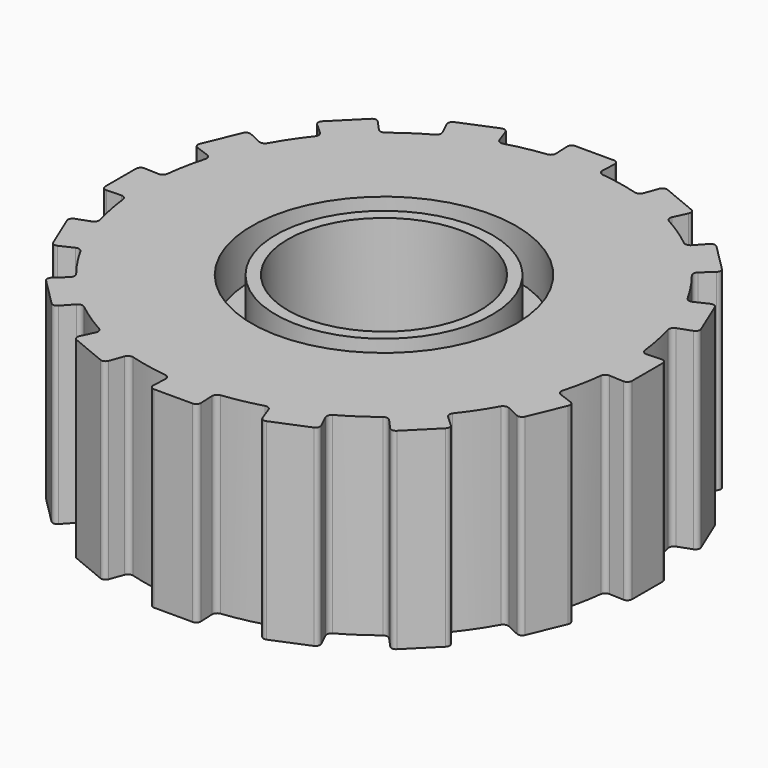
from build123d import *

# Parameters (mm, degrees)
F0_W     = 1.75
F0_H     = 2
F3_DEPTH = 25
F5_R     = 1.375
F5_R_2   = 1.125
F6_DEPTH = 0.5
F4_R     = 1.375
F4_R_2   = 1.125
F7_DEPTH = 0.5


with BuildPart() as f1:
    # F0 (on Front) → F1 (revolve)
    with BuildSketch(Plane.XZ):
        with Locations((-1.875, 1)):
            Rectangle(F0_W, F0_H)
    revolve(axis=Axis((0, 0, 1), (0, 0, 1)))

    # F2 (on face) → F3 (cut)
    with BuildSketch(Plane.XY.offset(2)):
        with BuildLine():
            ThreePointArc((-0.687594, 2.403584), (-0.487726, 2.451963), (-0.284558, 2.483753))
            Line((-0.284558, 2.483753), (-0.297718, 2.688613))
            Line((-0.297718, 2.688613), (-0.247718, 2.688613))
            Line((-0.247718, 2.688613), (-0.25, 2.738613))
            ThreePointArc((-0.25, 2.738613), (-0.536498, 2.69716), (-0.817052, 2.625819))
            Line((-0.817052, 2.625819), (-0.800026, 2.578752))
            Line((-0.800026, 2.578752), (-0.748944, 2.437536))
            ThreePointArc((-0.748944, 2.437536), (-0.724642, 2.409045), (-0.687594, 2.403584))
        make_face()
        with BuildLine():
            ThreePointArc((-0.284558, 2.483753), (-0.25242, 2.502975), (-0.240871, 2.538598))
            Line((-0.240871, 2.538598), (-0.247718, 2.688613))
            Line((-0.247718, 2.688613), (-0.297718, 2.688613))
            Line((-0.297718, 2.688613), (-0.284558, 2.483753))
        make_face()
        with BuildLine():
            ThreePointArc((-0.247718, 2.688613), (-0.234558, 2.723823), (-0.2, 2.738613))
            Line((-0.2, 2.738613), (-0.25, 2.738613))
            Line((-0.25, 2.738613), (-0.247718, 2.688613))
        make_face()
        with BuildLine():
            Line((-0.2, 2.738613), (0, 2.738613))
            Line((0, 2.738613), (0, 2.75))
            ThreePointArc((0, 2.75), (-0.12513, 2.747152), (-0.25, 2.738613))
            Line((-0.25, 2.738613), (-0.2, 2.738613))
        make_face()
        with BuildLine():
            Line((0, 2.75), (0, 2.738613))
            Line((0, 2.738613), (0.2, 2.738613))
            Line((0.2, 2.738613), (0.25, 2.738613))
            ThreePointArc((0.25, 2.738613), (0.12513, 2.747152), (0, 2.75))
        make_face()
        with BuildLine():
            Line((0.25, 2.738613), (0.2, 2.738613))
            ThreePointArc((0.2, 2.738613), (0.234558, 2.723823), (0.247718, 2.688613))
            Line((0.247718, 2.688613), (0.25, 2.738613))
        make_face()
        with BuildLine():
            Line((0.297718, 2.688613), (0.284558, 2.483753))
            ThreePointArc((0.284558, 2.483753), (0.487726, 2.451963), (0.687594, 2.403584))
            ThreePointArc((0.687594, 2.403584), (0.724642, 2.409045), (0.748944, 2.437536))
            Line((0.748944, 2.437536), (0.800026, 2.578752))
            Line((0.800026, 2.578752), (0.817052, 2.625819))
            ThreePointArc((0.817052, 2.625819), (0.536498, 2.69716), (0.25, 2.738613))
            Line((0.25, 2.738613), (0.247718, 2.688613))
            Line((0.247718, 2.688613), (0.297718, 2.688613))
        make_face()
        with BuildLine():
            Line((0.247718, 2.688613), (0.240871, 2.538598))
            ThreePointArc((0.240871, 2.538598), (0.25242, 2.502975), (0.284558, 2.483753))
            Line((0.284558, 2.483753), (0.297718, 2.688613))
            Line((0.297718, 2.688613), (0.247718, 2.688613))
        make_face()
        with BuildLine():
            Line((-0.817052, -2.625819), (-0.800026, -2.578752))
            ThreePointArc((-0.800026, -2.578752), (-0.825659, -2.606246), (-0.863246, -2.606685))
            Line((-0.863246, -2.606685), (-0.817052, -2.625819))
        make_face()
        with BuildLine():
            Line((-0.863246, -2.606685), (-1.232798, -2.453612))
            Line((-1.232798, -2.453612), (-1.278992, -2.434477))
            ThreePointArc((-1.278992, -2.434477), (-1.052379, -2.540669), (-0.817052, -2.625819))
            Line((-0.817052, -2.625819), (-0.863246, -2.606685))
        make_face()
        with BuildLine():
            ThreePointArc((-1.232798, -2.453612), (-1.259065, -2.426723), (-1.257749, -2.389157))
            Line((-1.257749, -2.389157), (-1.278992, -2.434477))
            Line((-1.278992, -2.434477), (-1.232798, -2.453612))
        make_face()
        with BuildLine():
            ThreePointArc((-1.213388, -2.185793), (-1.388926, -2.078674), (-1.555066, -1.957491))
            ThreePointArc((-1.555066, -1.957491), (-1.591383, -1.948359), (-1.624739, -1.965381))
            Line((-1.624739, -1.965381), (-1.725973, -2.076299))
            Line((-1.725973, -2.076299), (-1.759715, -2.113268))
            ThreePointArc((-1.759715, -2.113268), (-1.527818, -2.286541), (-1.278992, -2.434477))
            Line((-1.278992, -2.434477), (-1.257749, -2.389157))
            Line((-1.257749, -2.389157), (-1.194015, -2.253182))
            ThreePointArc((-1.194015, -2.253182), (-1.191053, -2.215851), (-1.213388, -2.185793))
        make_face()
        with BuildLine():
            Line((-1.759715, -2.113268), (-1.725973, -2.076299))
            ThreePointArc((-1.725973, -2.076299), (-1.760177, -2.091891), (-1.79507, -2.077913))
            Line((-1.79507, -2.077913), (-1.759715, -2.113268))
        make_face()
        with BuildLine():
            Line((-1.79507, -2.077913), (-2.077913, -1.79507))
            Line((-2.077913, -1.79507), (-2.113268, -1.759715))
            ThreePointArc((-2.113268, -1.759715), (-1.944544, -1.944544), (-1.759715, -2.113268))
            Line((-1.759715, -2.113268), (-1.79507, -2.077913))
        make_face()
        with BuildLine():
            ThreePointArc((-1.957491, -1.555066), (-2.078674, -1.388926), (-2.185793, -1.213388))
            ThreePointArc((-2.185793, -1.213388), (-2.215851, -1.191053), (-2.253182, -1.194015))
            Line((-2.253182, -1.194015), (-2.389157, -1.257749))
            Line((-2.389157, -1.257749), (-2.434477, -1.278992))
            ThreePointArc((-2.434477, -1.278992), (-2.286541, -1.527818), (-2.113268, -1.759715))
            Line((-2.113268, -1.759715), (-2.076299, -1.725973))
            Line((-2.076299, -1.725973), (-1.965381, -1.624739))
            ThreePointArc((-1.965381, -1.624739), (-1.948359, -1.591383), (-1.957491, -1.555066))
        make_face()
        with BuildLine():
            ThreePointArc((-2.077913, -1.79507), (-2.091891, -1.760177), (-2.076299, -1.725973))
            Line((-2.076299, -1.725973), (-2.113268, -1.759715))
            Line((-2.113268, -1.759715), (-2.077913, -1.79507))
        make_face()
        with BuildLine():
            Line((-2.453612, -1.232798), (-2.606685, -0.863246))
            Line((-2.606685, -0.863246), (-2.625819, -0.817052))
            ThreePointArc((-2.625819, -0.817052), (-2.540669, -1.052379), (-2.434477, -1.278992))
            Line((-2.434477, -1.278992), (-2.453612, -1.232798))
        make_face()
        with BuildLine():
            Line((-2.434477, -1.278992), (-2.389157, -1.257749))
            ThreePointArc((-2.389157, -1.257749), (-2.426723, -1.259065), (-2.453612, -1.232798))
            Line((-2.453612, -1.232798), (-2.434477, -1.278992))
        make_face()
        with BuildLine():
            ThreePointArc((-2.606685, -0.863246), (-2.606246, -0.825659), (-2.578752, -0.800026))
            Line((-2.578752, -0.800026), (-2.625819, -0.817052))
            Line((-2.625819, -0.817052), (-2.606685, -0.863246))
        make_face()
        with BuildLine():
            ThreePointArc((-2.403584, -0.687594), (-2.451963, -0.487726), (-2.483753, -0.284558))
            ThreePointArc((-2.483753, -0.284558), (-2.502975, -0.25242), (-2.538598, -0.240871))
            Line((-2.538598, -0.240871), (-2.688613, -0.247718))
            Line((-2.688613, -0.247718), (-2.738613, -0.25))
            ThreePointArc((-2.738613, -0.25), (-2.69716, -0.536498), (-2.625819, -0.817052))
            Line((-2.625819, -0.817052), (-2.578752, -0.800026))
            Line((-2.578752, -0.800026), (-2.437536, -0.748944))
            ThreePointArc((-2.437536, -0.748944), (-2.409045, -0.724642), (-2.403584, -0.687594))
        make_face()
        with BuildLine():
            Line((-2.738613, -0.25), (-2.688613, -0.247718))
            ThreePointArc((-2.688613, -0.247718), (-2.723823, -0.234558), (-2.738613, -0.2))
            Line((-2.738613, -0.2), (-2.738613, -0.25))
        make_face()
        with BuildLine():
            Line((-2.738613, -0.2), (-2.738613, 0.2))
            Line((-2.738613, 0.2), (-2.738613, 0.25))
            ThreePointArc((-2.738613, 0.25), (-2.75, 0), (-2.738613, -0.25))
            Line((-2.738613, -0.25), (-2.738613, -0.2))
        make_face()
        with BuildLine():
            ThreePointArc((-2.738613, 0.2), (-2.723823, 0.234558), (-2.688613, 0.247718))
            Line((-2.688613, 0.247718), (-2.738613, 0.25))
            Line((-2.738613, 0.25), (-2.738613, 0.2))
        make_face()
        with BuildLine():
            ThreePointArc((-2.483753, 0.284558), (-2.451963, 0.487726), (-2.403584, 0.687594))
            ThreePointArc((-2.403584, 0.687594), (-2.409045, 0.724642), (-2.437536, 0.748944))
            Line((-2.437536, 0.748944), (-2.578752, 0.800026))
            Line((-2.578752, 0.800026), (-2.625819, 0.817052))
            ThreePointArc((-2.625819, 0.817052), (-2.69716, 0.536498), (-2.738613, 0.25))
            Line((-2.738613, 0.25), (-2.688613, 0.247718))
            Line((-2.688613, 0.247718), (-2.538598, 0.240871))
            ThreePointArc((-2.538598, 0.240871), (-2.502975, 0.25242), (-2.483753, 0.284558))
        make_face()
        with BuildLine():
            Line((-2.625819, 0.817052), (-2.578752, 0.800026))
            ThreePointArc((-2.578752, 0.800026), (-2.606246, 0.825659), (-2.606685, 0.863246))
            Line((-2.606685, 0.863246), (-2.625819, 0.817052))
        make_face()
        with BuildLine():
            Line((-2.606685, 0.863246), (-2.453612, 1.232798))
            Line((-2.453612, 1.232798), (-2.434477, 1.278992))
            ThreePointArc((-2.434477, 1.278992), (-2.540669, 1.052379), (-2.625819, 0.817052))
            Line((-2.625819, 0.817052), (-2.606685, 0.863246))
        make_face()
        with BuildLine():
            ThreePointArc((-2.453612, 1.232798), (-2.426723, 1.259065), (-2.389157, 1.257749))
            Line((-2.389157, 1.257749), (-2.434477, 1.278992))
            Line((-2.434477, 1.278992), (-2.453612, 1.232798))
        make_face()
        with BuildLine():
            Line((-2.077913, 1.79507), (-1.79507, 2.077913))
            Line((-1.79507, 2.077913), (-1.759715, 2.113268))
            ThreePointArc((-1.759715, 2.113268), (-1.944544, 1.944544), (-2.113268, 1.759715))
            Line((-2.113268, 1.759715), (-2.077913, 1.79507))
        make_face()
        with BuildLine():
            Line((-2.113268, 1.759715), (-2.076299, 1.725973))
            ThreePointArc((-2.076299, 1.725973), (-2.091891, 1.760177), (-2.077913, 1.79507))
            Line((-2.077913, 1.79507), (-2.113268, 1.759715))
        make_face()
        with BuildLine():
            ThreePointArc((-2.185793, 1.213388), (-2.078674, 1.388926), (-1.957491, 1.555066))
            ThreePointArc((-1.957491, 1.555066), (-1.948359, 1.591383), (-1.965381, 1.624739))
            Line((-1.965381, 1.624739), (-2.076299, 1.725973))
            Line((-2.076299, 1.725973), (-2.113268, 1.759715))
            ThreePointArc((-2.113268, 1.759715), (-2.286541, 1.527818), (-2.434477, 1.278992))
            Line((-2.434477, 1.278992), (-2.389157, 1.257749))
            Line((-2.389157, 1.257749), (-2.253182, 1.194015))
            ThreePointArc((-2.253182, 1.194015), (-2.215851, 1.191053), (-2.185793, 1.213388))
        make_face()
        with BuildLine():
            ThreePointArc((-1.79507, 2.077913), (-1.760177, 2.091891), (-1.725973, 2.076299))
            Line((-1.725973, 2.076299), (-1.759715, 2.113268))
            Line((-1.759715, 2.113268), (-1.79507, 2.077913))
        make_face()
        with BuildLine():
            ThreePointArc((-1.555066, 1.957491), (-1.388926, 2.078674), (-1.213388, 2.185793))
            ThreePointArc((-1.213388, 2.185793), (-1.191053, 2.215851), (-1.194015, 2.253182))
            Line((-1.194015, 2.253182), (-1.257749, 2.389157))
            Line((-1.257749, 2.389157), (-1.278992, 2.434477))
            ThreePointArc((-1.278992, 2.434477), (-1.527818, 2.286541), (-1.759715, 2.113268))
            Line((-1.759715, 2.113268), (-1.725973, 2.076299))
            Line((-1.725973, 2.076299), (-1.624739, 1.965381))
            ThreePointArc((-1.624739, 1.965381), (-1.591383, 1.948359), (-1.555066, 1.957491))
        make_face()
        with BuildLine():
            Line((-1.278992, 2.434477), (-1.257749, 2.389157))
            ThreePointArc((-1.257749, 2.389157), (-1.259065, 2.426723), (-1.232798, 2.453612))
            Line((-1.232798, 2.453612), (-1.278992, 2.434477))
        make_face()
        with BuildLine():
            ThreePointArc((-0.863246, 2.606685), (-0.825659, 2.606246), (-0.800026, 2.578752))
            Line((-0.800026, 2.578752), (-0.817052, 2.625819))
            Line((-0.817052, 2.625819), (-0.863246, 2.606685))
        make_face()
        with BuildLine():
            Line((-0.863246, 2.606685), (-0.817052, 2.625819))
            ThreePointArc((-0.817052, 2.625819), (-1.052379, 2.540669), (-1.278992, 2.434477))
            Line((-1.278992, 2.434477), (-1.232798, 2.453612))
            Line((-1.232798, 2.453612), (-0.863246, 2.606685))
        make_face()
        with BuildLine():
            Line((2.434477, 1.278992), (2.389157, 1.257749))
            ThreePointArc((2.389157, 1.257749), (2.426723, 1.259065), (2.453612, 1.232798))
            Line((2.453612, 1.232798), (2.434477, 1.278992))
        make_face()
        with BuildLine():
            ThreePointArc((2.625819, 0.817052), (2.540669, 1.052379), (2.434477, 1.278992))
            Line((2.434477, 1.278992), (2.453612, 1.232798))
            Line((2.453612, 1.232798), (2.606685, 0.863246))
            Line((2.606685, 0.863246), (2.625819, 0.817052))
        make_face()
        with BuildLine():
            ThreePointArc((2.606685, 0.863246), (2.606246, 0.825659), (2.578752, 0.800026))
            Line((2.578752, 0.800026), (2.625819, 0.817052))
            Line((2.625819, 0.817052), (2.606685, 0.863246))
        make_face()
        with BuildLine():
            ThreePointArc((2.403584, 0.687594), (2.451963, 0.487726), (2.483753, 0.284558))
            ThreePointArc((2.483753, 0.284558), (2.502975, 0.25242), (2.538598, 0.240871))
            Line((2.538598, 0.240871), (2.688613, 0.247718))
            Line((2.688613, 0.247718), (2.738613, 0.25))
            ThreePointArc((2.738613, 0.25), (2.69716, 0.536498), (2.625819, 0.817052))
            Line((2.625819, 0.817052), (2.578752, 0.800026))
            Line((2.578752, 0.800026), (2.437536, 0.748944))
            ThreePointArc((2.437536, 0.748944), (2.409045, 0.724642), (2.403584, 0.687594))
        make_face()
        with BuildLine():
            Line((2.738613, 0.25), (2.688613, 0.247718))
            ThreePointArc((2.688613, 0.247718), (2.723823, 0.234558), (2.738613, 0.2))
            Line((2.738613, 0.2), (2.738613, 0.25))
        make_face()
        with BuildLine():
            ThreePointArc((2.75, 0), (2.747152, 0.12513), (2.738613, 0.25))
            Line((2.738613, 0.25), (2.738613, 0.2))
            Line((2.738613, 0.2), (2.738613, -0.2))
            Line((2.738613, -0.2), (2.738613, -0.25))
            ThreePointArc((2.738613, -0.25), (2.747152, -0.12513), (2.75, 0))
        make_face()
        with BuildLine():
            ThreePointArc((2.738613, -0.2), (2.723823, -0.234558), (2.688613, -0.247718))
            Line((2.688613, -0.247718), (2.738613, -0.25))
            Line((2.738613, -0.25), (2.738613, -0.2))
        make_face()
        with BuildLine():
            ThreePointArc((2.483753, -0.284558), (2.451963, -0.487726), (2.403584, -0.687594))
            ThreePointArc((2.403584, -0.687594), (2.409045, -0.724642), (2.437536, -0.748944))
            Line((2.437536, -0.748944), (2.578752, -0.800026))
            Line((2.578752, -0.800026), (2.625819, -0.817052))
            ThreePointArc((2.625819, -0.817052), (2.69716, -0.536498), (2.738613, -0.25))
            Line((2.738613, -0.25), (2.688613, -0.247718))
            Line((2.688613, -0.247718), (2.538598, -0.240871))
            ThreePointArc((2.538598, -0.240871), (2.502975, -0.25242), (2.483753, -0.284558))
        make_face()
        with BuildLine():
            Line((2.625819, -0.817052), (2.578752, -0.800026))
            ThreePointArc((2.578752, -0.800026), (2.606246, -0.825659), (2.606685, -0.863246))
            Line((2.606685, -0.863246), (2.625819, -0.817052))
        make_face()
        with BuildLine():
            ThreePointArc((2.434477, -1.278992), (2.540669, -1.052379), (2.625819, -0.817052))
            Line((2.625819, -0.817052), (2.606685, -0.863246))
            Line((2.606685, -0.863246), (2.453612, -1.232798))
            Line((2.453612, -1.232798), (2.434477, -1.278992))
        make_face()
        with BuildLine():
            Line((2.113268, -1.759715), (2.076299, -1.725973))
            ThreePointArc((2.076299, -1.725973), (2.091891, -1.760177), (2.077913, -1.79507))
            Line((2.077913, -1.79507), (2.113268, -1.759715))
        make_face()
        with BuildLine():
            ThreePointArc((1.759715, -2.113268), (1.944544, -1.944544), (2.113268, -1.759715))
            Line((2.113268, -1.759715), (2.077913, -1.79507))
            Line((2.077913, -1.79507), (1.79507, -2.077913))
            Line((1.79507, -2.077913), (1.759715, -2.113268))
        make_face()
        with BuildLine():
            Line((1.278992, -2.434477), (1.257749, -2.389157))
            ThreePointArc((1.257749, -2.389157), (1.259065, -2.426723), (1.232798, -2.453612))
            Line((1.232798, -2.453612), (1.278992, -2.434477))
        make_face()
        with BuildLine():
            ThreePointArc((0.817052, -2.625819), (1.052379, -2.540669), (1.278992, -2.434477))
            Line((1.278992, -2.434477), (1.232798, -2.453612))
            Line((1.232798, -2.453612), (0.863246, -2.606685))
            Line((0.863246, -2.606685), (0.817052, -2.625819))
        make_face()
        with BuildLine():
            ThreePointArc((0.863246, -2.606685), (0.825659, -2.606246), (0.800026, -2.578752))
            Line((0.800026, -2.578752), (0.817052, -2.625819))
            Line((0.817052, -2.625819), (0.863246, -2.606685))
        make_face()
        with BuildLine():
            ThreePointArc((0.687594, -2.403584), (0.487726, -2.451963), (0.284558, -2.483753))
            ThreePointArc((0.284558, -2.483753), (0.25242, -2.502975), (0.240871, -2.538598))
            Line((0.240871, -2.538598), (0.247718, -2.688613))
            Line((0.247718, -2.688613), (0.25, -2.738613))
            ThreePointArc((0.25, -2.738613), (0.536498, -2.69716), (0.817052, -2.625819))
            Line((0.817052, -2.625819), (0.800026, -2.578752))
            Line((0.800026, -2.578752), (0.748944, -2.437536))
            ThreePointArc((0.748944, -2.437536), (0.724642, -2.409045), (0.687594, -2.403584))
        make_face()
        with BuildLine():
            ThreePointArc((1.555066, -1.957491), (1.388926, -2.078674), (1.213388, -2.185793))
            ThreePointArc((1.213388, -2.185793), (1.191053, -2.215851), (1.194015, -2.253182))
            Line((1.194015, -2.253182), (1.257749, -2.389157))
            Line((1.257749, -2.389157), (1.278992, -2.434477))
            ThreePointArc((1.278992, -2.434477), (1.527818, -2.286541), (1.759715, -2.113268))
            Line((1.759715, -2.113268), (1.725973, -2.076299))
            Line((1.725973, -2.076299), (1.624739, -1.965381))
            ThreePointArc((1.624739, -1.965381), (1.591383, -1.948359), (1.555066, -1.957491))
        make_face()
        with BuildLine():
            ThreePointArc((2.185793, -1.213388), (2.078674, -1.388926), (1.957491, -1.555066))
            ThreePointArc((1.957491, -1.555066), (1.948359, -1.591383), (1.965381, -1.624739))
            Line((1.965381, -1.624739), (2.076299, -1.725973))
            Line((2.076299, -1.725973), (2.113268, -1.759715))
            ThreePointArc((2.113268, -1.759715), (2.286541, -1.527818), (2.434477, -1.278992))
            Line((2.434477, -1.278992), (2.389157, -1.257749))
            Line((2.389157, -1.257749), (2.253182, -1.194015))
            ThreePointArc((2.253182, -1.194015), (2.215851, -1.191053), (2.185793, -1.213388))
        make_face()
        with BuildLine():
            ThreePointArc((1.79507, -2.077913), (1.760177, -2.091891), (1.725973, -2.076299))
            Line((1.725973, -2.076299), (1.759715, -2.113268))
            Line((1.759715, -2.113268), (1.79507, -2.077913))
        make_face()
        with BuildLine():
            ThreePointArc((2.453612, -1.232798), (2.426723, -1.259065), (2.389157, -1.257749))
            Line((2.389157, -1.257749), (2.434477, -1.278992))
            Line((2.434477, -1.278992), (2.453612, -1.232798))
        make_face()
        with BuildLine():
            Line((0.25, -2.738613), (0.247718, -2.688613))
            ThreePointArc((0.247718, -2.688613), (0.234558, -2.723823), (0.2, -2.738613))
            Line((0.2, -2.738613), (0.25, -2.738613))
        make_face()
        with BuildLine():
            ThreePointArc((-0.25, -2.738613), (0, -2.75), (0.25, -2.738613))
            Line((0.25, -2.738613), (0.2, -2.738613))
            Line((0.2, -2.738613), (-0.2, -2.738613))
            Line((-0.2, -2.738613), (-0.25, -2.738613))
        make_face()
        with BuildLine():
            ThreePointArc((-0.2, -2.738613), (-0.234558, -2.723823), (-0.247718, -2.688613))
            Line((-0.247718, -2.688613), (-0.25, -2.738613))
            Line((-0.25, -2.738613), (-0.2, -2.738613))
        make_face()
        with BuildLine():
            ThreePointArc((-0.284558, -2.483753), (-0.487726, -2.451963), (-0.687594, -2.403584))
            ThreePointArc((-0.687594, -2.403584), (-0.724642, -2.409045), (-0.748944, -2.437536))
            Line((-0.748944, -2.437536), (-0.800026, -2.578752))
            Line((-0.800026, -2.578752), (-0.817052, -2.625819))
            ThreePointArc((-0.817052, -2.625819), (-0.536498, -2.69716), (-0.25, -2.738613))
            Line((-0.25, -2.738613), (-0.247718, -2.688613))
            Line((-0.247718, -2.688613), (-0.240871, -2.538598))
            ThreePointArc((-0.240871, -2.538598), (-0.25242, -2.502975), (-0.284558, -2.483753))
        make_face()
        with BuildLine():
            ThreePointArc((1.957491, 1.555066), (2.078674, 1.388926), (2.185793, 1.213388))
            ThreePointArc((2.185793, 1.213388), (2.215851, 1.191053), (2.253182, 1.194015))
            Line((2.253182, 1.194015), (2.389157, 1.257749))
            Line((2.389157, 1.257749), (2.434477, 1.278992))
            ThreePointArc((2.434477, 1.278992), (2.286541, 1.527818), (2.113268, 1.759715))
            Line((2.113268, 1.759715), (2.076299, 1.725973))
            Line((2.076299, 1.725973), (1.965381, 1.624739))
            ThreePointArc((1.965381, 1.624739), (1.948359, 1.591383), (1.957491, 1.555066))
        make_face()
        with BuildLine():
            ThreePointArc((2.077913, 1.79507), (2.091891, 1.760177), (2.076299, 1.725973))
            Line((2.076299, 1.725973), (2.113268, 1.759715))
            Line((2.113268, 1.759715), (2.077913, 1.79507))
        make_face()
        with BuildLine():
            ThreePointArc((2.113268, 1.759715), (1.944544, 1.944544), (1.759715, 2.113268))
            Line((1.759715, 2.113268), (1.79507, 2.077913))
            Line((1.79507, 2.077913), (2.077913, 1.79507))
            Line((2.077913, 1.79507), (2.113268, 1.759715))
        make_face()
        with BuildLine():
            Line((1.759715, 2.113268), (1.725973, 2.076299))
            ThreePointArc((1.725973, 2.076299), (1.760177, 2.091891), (1.79507, 2.077913))
            Line((1.79507, 2.077913), (1.759715, 2.113268))
        make_face()
        with BuildLine():
            ThreePointArc((1.194015, 2.253182), (1.191053, 2.215851), (1.213388, 2.185793))
            ThreePointArc((1.213388, 2.185793), (1.388926, 2.078674), (1.555066, 1.957491))
            ThreePointArc((1.555066, 1.957491), (1.591383, 1.948359), (1.624739, 1.965381))
            Line((1.624739, 1.965381), (1.725973, 2.076299))
            Line((1.725973, 2.076299), (1.759715, 2.113268))
            ThreePointArc((1.759715, 2.113268), (1.527818, 2.286541), (1.278992, 2.434477))
            Line((1.278992, 2.434477), (1.257749, 2.389157))
            Line((1.257749, 2.389157), (1.194015, 2.253182))
        make_face()
        with BuildLine():
            ThreePointArc((1.278992, 2.434477), (1.052379, 2.540669), (0.817052, 2.625819))
            Line((0.817052, 2.625819), (0.863246, 2.606685))
            Line((0.863246, 2.606685), (1.232798, 2.453612))
            Line((1.232798, 2.453612), (1.278992, 2.434477))
        make_face()
        with BuildLine():
            Line((0.817052, 2.625819), (0.800026, 2.578752))
            ThreePointArc((0.800026, 2.578752), (0.825659, 2.606246), (0.863246, 2.606685))
            Line((0.863246, 2.606685), (0.817052, 2.625819))
        make_face()
        with BuildLine():
            ThreePointArc((1.232798, 2.453612), (1.259065, 2.426723), (1.257749, 2.389157))
            Line((1.257749, 2.389157), (1.278992, 2.434477))
            Line((1.278992, 2.434477), (1.232798, 2.453612))
        make_face()
    extrude(amount=-F3_DEPTH, mode=Mode.SUBTRACT)

    # F5 (on face) → F6 (cut)
    with BuildSketch(Plane(origin=(0, 0, 0), x_dir=(1, 0, 0), z_dir=(0, 0, -1))):
        Circle(F5_R)
        Circle(F5_R_2, mode=Mode.SUBTRACT)
    extrude(amount=-F6_DEPTH, mode=Mode.SUBTRACT)

    # F4 (on face) → F7 (cut)
    with BuildSketch(Plane.XY.offset(2)):
        Circle(F4_R)
        Circle(F4_R_2, mode=Mode.SUBTRACT)
    extrude(amount=-F7_DEPTH, mode=Mode.SUBTRACT)


solid = f1.part
